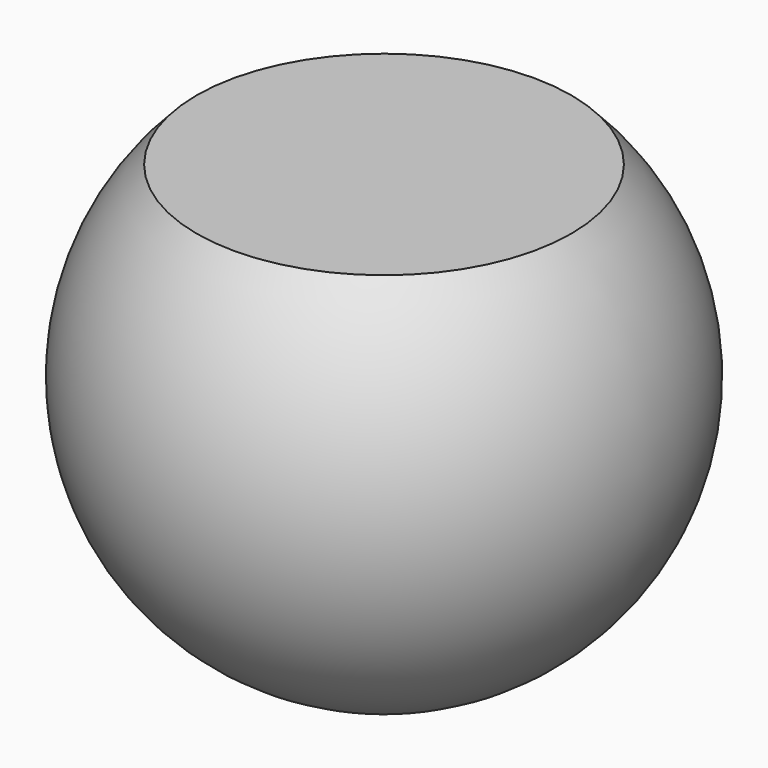
from build123d import *

# Parameters (mm, degrees)
F2_W     = 45.296055
F2_H     = 13.914475
F3_DEPTH = 25


with BuildPart() as f1:
    # F0 (on Front) → F1 (revolve)
    with BuildSketch(Plane.XZ):
        with BuildLine():
            Line((0, 22.6751), (0, -22.6751))
            ThreePointArc((0, -22.6751), (22.6751, 0), (0, 22.6751))
        make_face()
    revolve(axis=Axis((0, 0, 0.740131), (0, 0, -1)))

    # F2 (on Front) → F3 (cut, symmetric)
    with BuildSketch(Plane.XZ):
        with Locations((0.296053, 22.94408)):
            Rectangle(F2_W, F2_H)
    extrude(amount=F3_DEPTH, both=True, mode=Mode.SUBTRACT)


solid = f1.part
